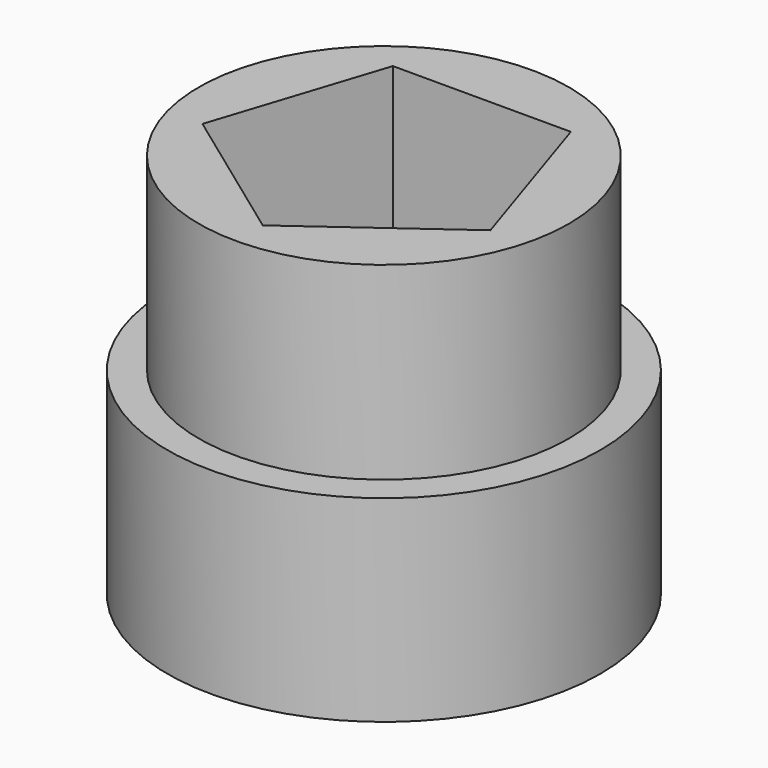
from build123d import *

# Parameters (mm, degrees)
F0_R     = 27.903603
F1_DEPTH = 25.4
F2_R     = 23.860723
F3_DEPTH = 24.384


with BuildPart() as f1:
    # F0 (on Top) → F1 (new body)
    with BuildSketch(Plane.XY):
        Circle(F0_R)
    extrude(amount=F1_DEPTH)

    # F2 (on face) → F3 (join)
    with BuildSketch(Plane.XY.offset(25.4)):
        Circle(F2_R)
        Polygon((-18.564959, -6.032121), (-11.473776, 15.792297), (11.473776, 15.792297), (18.564959, -6.032121), (0, -19.520353), align=None, mode=Mode.SUBTRACT)
    extrude(amount=F3_DEPTH)


solid = f1.part
